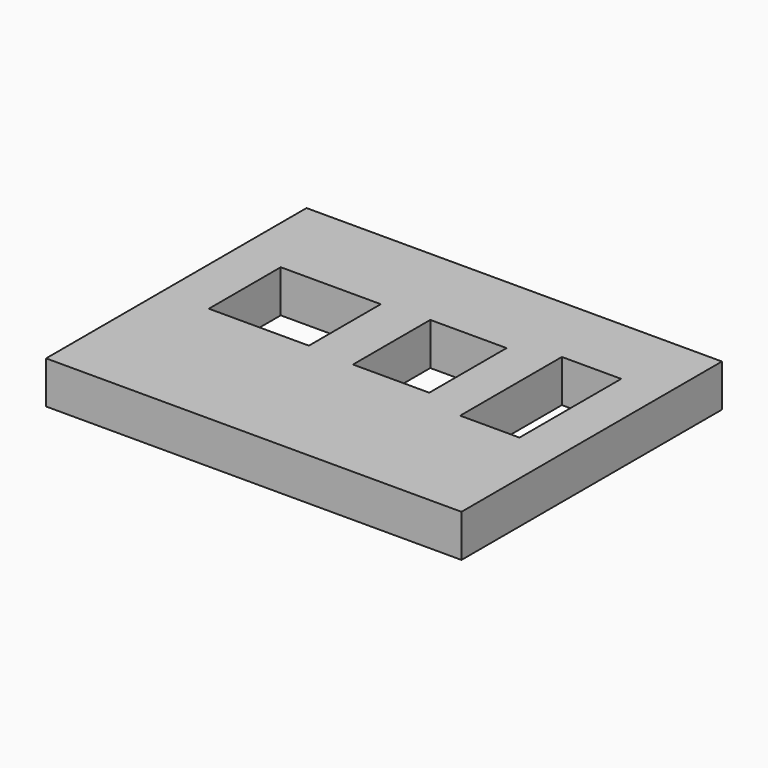
from build123d import *

# Parameters (mm, degrees)
F0_W     = 245
F0_H     = 160
F0_W_2   = 59
F0_H_2   = 53
F0_W_3   = 45
F0_H_3   = 57
F0_W_4   = 35
F0_H_4   = 75
F0_H_5   = 32
F1_DEPTH = 25


with BuildPart() as f1:
    # F0 (on Top) → F1 (new body)
    with BuildSketch(Plane.XY):
        Rectangle(F0_W, F0_H)
        with Locations((-65.4, 0)):
            Rectangle(F0_W_2, F0_H_2, mode=Mode.SUBTRACT)
        with Locations((14.2, 0)):
            Rectangle(F0_W_3, F0_H_3, mode=Mode.SUBTRACT)
        with Locations((79.6, 0)):
            Rectangle(F0_W_4, F0_H_4, mode=Mode.SUBTRACT)
        with Locations((0, -96)):
            Rectangle(F0_W, F0_H_5)
    extrude(amount=F1_DEPTH)


solid = f1.part
